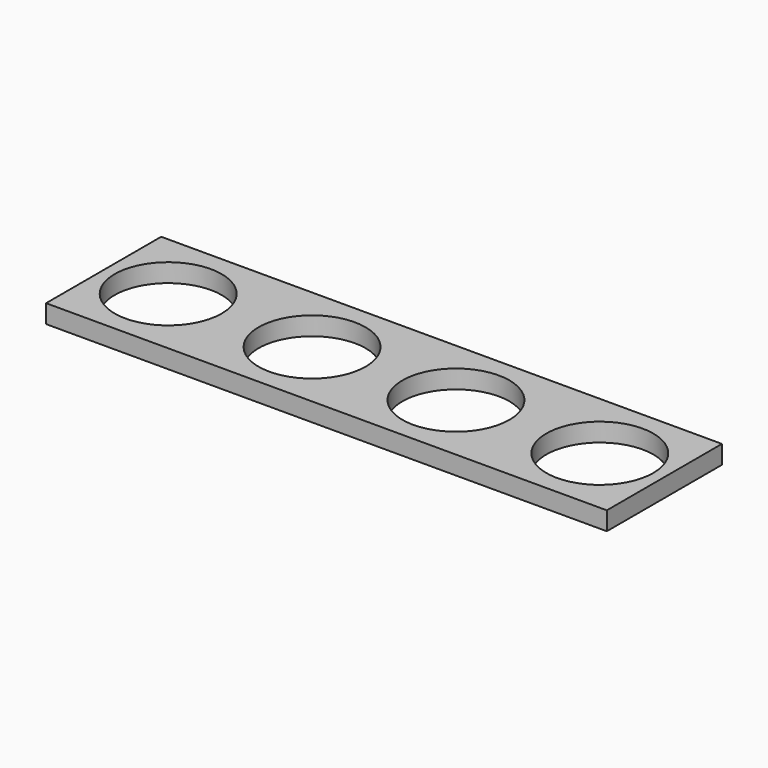
from build123d import *

# Parameters (mm, degrees)
SKETCH_W            = 152
SKETCH_H            = 39
PAD_DEPTH           = 5
SKETCH001_R         = 14.5
POCKET_DEPTH        = 5
LINEARPATTERN_COUNT = 4
LINEARPATTERN_PITCH = 39


with BuildPart() as part:
    # Sketch → Pad (new body)
    with BuildSketch(Plane.XY):
        with Locations((76, 19.5)):
            Rectangle(SKETCH_W, SKETCH_H)
    extrude(amount=PAD_DEPTH)

    # Sketch001 → Pocket (cut)
    with BuildSketch(Plane.XY.offset(5)):
        with Locations((17.5, 19.5)):
            Circle(SKETCH001_R)
    pocket = extrude(amount=-POCKET_DEPTH, mode=Mode.SUBTRACT)

    # LinearPattern: Pocket ×4
    with Locations(*[(i * LINEARPATTERN_PITCH, 0, 0) for i in range(1, LINEARPATTERN_COUNT)]):
        add(pocket, mode=Mode.SUBTRACT)


solid = part.part
